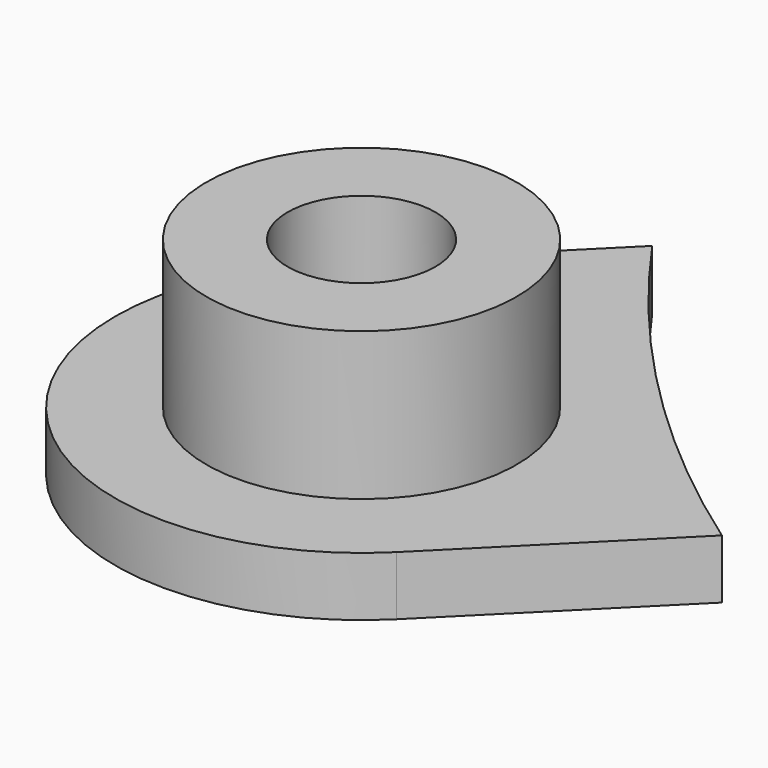
from build123d import *

# Parameters (mm, degrees)
PAD_DEPTH             = 1.2
SKETCH001_R           = 3.15
PAD001_DEPTH          = 3
SKETCH002_R           = 0.8
POCKET_DEPTH          = 4.201
SKETCH003_R           = 1.5
POCKET001_DEPTH       = 5
CLONE_PLACEMENT_ANGLE = 90


with BuildPart() as part:
    # Sketch → Pad (new body)
    with BuildSketch(Plane.XY):
        with BuildLine():
            ThreePointArc((-19.975767, 27.046834), (-27.046834, 27.046834), (-27.046834, 19.975767))
            Line((-23.375519, 16.304451), (-27.046834, 19.975767))
            ThreePointArc((-16.304451, 23.375519), (-20.152543, 20.152543), (-23.375519, 16.304451))
            Line((-19.975767, 27.046834), (-16.304451, 23.375519))
        make_face()
    extrude(amount=PAD_DEPTH)

    # Sketch001 → Pad001 (new body)
    with BuildSketch(Plane.XY.offset(1.2)):
        with Locations((-23.5113, 23.5113)):
            Circle(SKETCH001_R)
    extrude(amount=PAD001_DEPTH)

    # Sketch002 → Pocket (cut, through all)
    with BuildSketch(Plane.XY.offset(4.2)):
        with Locations((-23.5113, 23.5113)):
            Circle(SKETCH002_R)
    extrude(amount=-POCKET_DEPTH, mode=Mode.SUBTRACT)

    # Sketch003 → Pocket001 (cut)
    with BuildSketch(Plane.XY.offset(4.2)):
        with Locations((-23.5113, 23.5113)):
            Circle(SKETCH003_R)
    extrude(amount=-POCKET001_DEPTH, mode=Mode.SUBTRACT)


with BuildPart() as part_1:
    # Clone placement: moved
    add(part.part.rotate(Axis((0, 0, 0), (0, 0, 1)), CLONE_PLACEMENT_ANGLE))


solid = part_1.part
